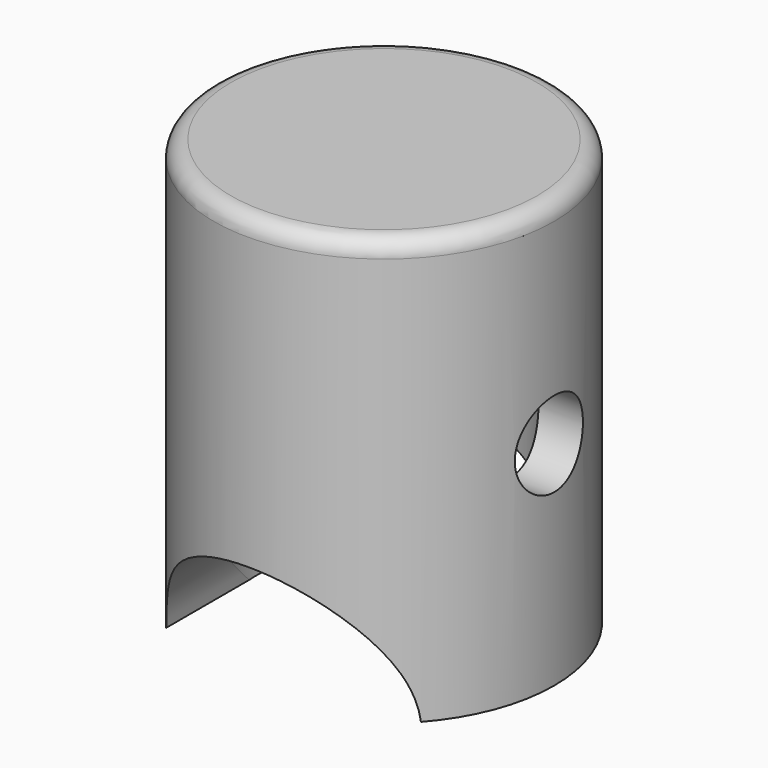
from build123d import *

# Parameters (mm, degrees)
F0_R          = 12.7
F1_DEPTH      = 15.875
F1_DEPTH_BACK = 15.875
F2_R          = 9.525
F3_DEPTH      = 25.4
F4_R          = 1.27
F6_DEPTH      = 25.4
F6_DEPTH_BACK = 25.4
F7_R          = 3.175
F8_DEPTH      = 12.7
F8_DEPTH_BACK = 12.7


with BuildPart() as f1:
    # F0 (on Top) → F1 (new body, two sides)
    with BuildSketch(Plane.XY) as f1_sk:
        Circle(F0_R)
    extrude(amount=F1_DEPTH)
    extrude(f1_sk.sketch, amount=-F1_DEPTH_BACK)

    # F2 (on face) → F3 (cut)
    with BuildSketch(Plane(origin=(0, 0, -15.875), x_dir=(1, 0, 0), z_dir=(0, 0, -1))):
        Circle(F2_R)
    extrude(amount=-F3_DEPTH, mode=Mode.SUBTRACT)

    # F4
    f4_edges = [f1.edges().sort_by_distance(p)[0] for p in [
        (-12.7, 0, 15.875),
    ]]
    fillet(f4_edges, radius=F4_R)

    # F5 (on Front) → F6 (cut, two sides)
    with BuildSketch(Plane.XZ) as f6_sk:
        with BuildLine():
            ThreePointArc((0, -7.0470880032), (-6.7351920908, -23.307280094), (9.525, -16.5720880032))
            ThreePointArc((9.525, -16.5720880032), (6.7351920908, -9.8368959124), (0, -7.0470880032))
        make_face()
    extrude(amount=F6_DEPTH, mode=Mode.SUBTRACT)
    extrude(f6_sk.sketch, amount=-F6_DEPTH_BACK, mode=Mode.SUBTRACT)

    # F7 (on Right) → F8 (cut, two sides)
    with BuildSketch(Plane.YZ) as f8_sk:
        Circle(F7_R)
    extrude(amount=-F8_DEPTH, mode=Mode.SUBTRACT)
    extrude(f8_sk.sketch, amount=F8_DEPTH_BACK, mode=Mode.SUBTRACT)


solid = f1.part
